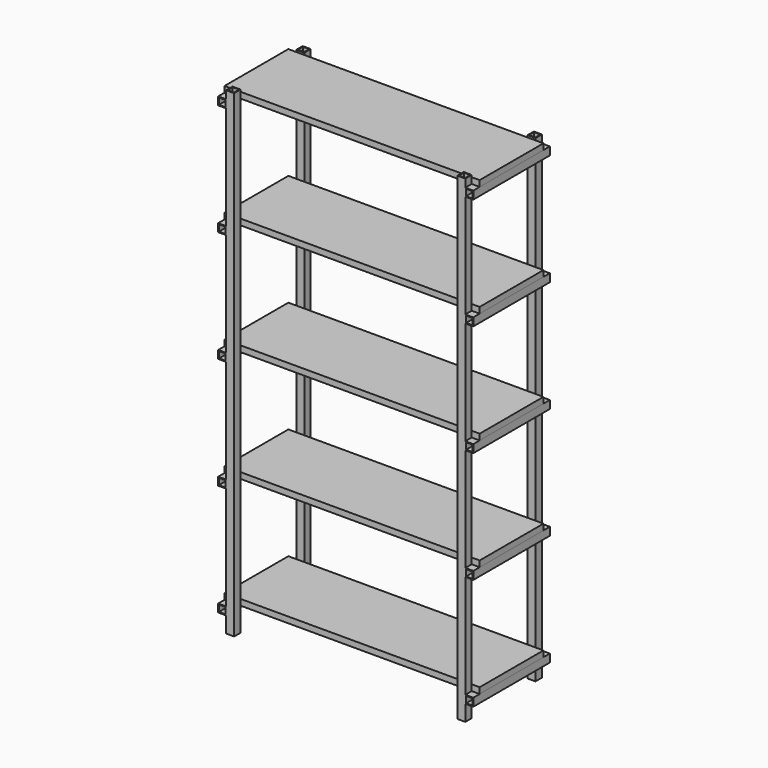
from build123d import *

# Parameters (mm, degrees)
F0_W      = 25.4
F0_H      = 1524
F1_DEPTH  = 25.4
F2_W      = 279.4
F2_H      = 25.4
F2_W_2    = 25.4
F4_DEPTH  = 25.4
F6_W      = 254
F6_H      = 19.05
F7_DEPTH  = 812.8
F8_W      = 20.32
F8_H      = 20.32
F9_DEPTH  = 304.8
F10_W     = 20.32
F10_H     = 20.32
F11_DEPTH = 1524


with BuildPart() as f1:
    # F0 (on Right) → F1 (new body)
    with BuildSketch(Plane.YZ):
        with Locations((12.7, 762)):
            Rectangle(F0_W, F0_H)
        Polygon((304.8, 1524), (279.4, 1524), (279.4, 1498.6), (279.4, 0), (304.8, 0), align=None)
    extrude(amount=F1_DEPTH)


with BuildPart() as f4:
    # F2 (on face) → F4 (new body)
    with BuildSketch(Plane.YZ.offset(25.4)):
        with Locations((165.1, 1485.9)):
            Rectangle(F2_W, F2_H)
        with Locations((165.1, 1130.3)):
            Rectangle(F2_W, F2_H)
        with Locations((165.1, 774.7)):
            Rectangle(F2_W, F2_H)
        with Locations((165.1, 419.1)):
            Rectangle(F2_W, F2_H)
        with Locations((165.1, 63.5)):
            Rectangle(F2_W, F2_H)
        with Locations((12.7, 1130.3)):
            Rectangle(F2_W_2, F2_H)
        with Locations((12.7, 774.7)):
            Rectangle(F2_W_2, F2_H)
        with Locations((12.7, 419.1)):
            Rectangle(F2_W_2, F2_H)
        with Locations((12.7, 63.5)):
            Rectangle(F2_W_2, F2_H)
        with Locations((12.7, 1485.9)):
            Rectangle(F2_W_2, F2_H)
    extrude(amount=F4_DEPTH)


with BuildPart() as f5_1:
    # F5: instance of F1
    add(f1.part.mirror(Plane.YZ.offset(-355.6)))


with BuildPart() as f5_2:
    # F5: instance of F4
    add(f4.part.mirror(Plane.YZ.offset(-355.6)))


with BuildPart() as f7:
    # F6 (on face) → F7 (new body)
    with BuildSketch(Plane.YZ.offset(50.8)):
        with Locations((152.4, 1508.125)):
            Rectangle(F6_W, F6_H)
        with Locations((152.4, 1152.525)):
            Rectangle(F6_W, F6_H)
        with Locations((152.4, 796.925)):
            Rectangle(F6_W, F6_H)
        with Locations((152.4, 441.325)):
            Rectangle(F6_W, F6_H)
        with Locations((152.4, 85.725)):
            Rectangle(F6_W, F6_H)
    extrude(amount=-F7_DEPTH)


with BuildPart() as f9_tool:
    # F8 (on face) → F9 (new body)
    with BuildSketch(Plane.XZ):
        with Locations((-749.3, 1485.9)):
            Rectangle(F8_W, F8_H)
        with Locations((-749.3, 1130.3)):
            Rectangle(F8_W, F8_H)
        with Locations((-749.3, 774.7)):
            Rectangle(F8_W, F8_H)
        with Locations((-749.3, 419.1)):
            Rectangle(F8_W, F8_H)
        with Locations((-749.3, 63.5)):
            Rectangle(F8_W, F8_H)
        with Locations((38.1, 63.5)):
            Rectangle(F8_W, F8_H)
        with Locations((38.1, 774.7)):
            Rectangle(F8_W, F8_H)
        with Locations((38.1, 419.1)):
            Rectangle(F8_W, F8_H)
        with Locations((38.1, 1485.9)):
            Rectangle(F8_W, F8_H)
        with Locations((38.1, 1130.3)):
            Rectangle(F8_W, F8_H)
    extrude(amount=-F9_DEPTH)


with BuildPart() as f4_1:
    add(f4.part)

    # F9: cut by f9_tool
    add(f9_tool.part, mode=Mode.SUBTRACT)


with BuildPart() as f5_2_1:
    add(f5_2.part)

    # F9: cut by f9_tool
    add(f9_tool.part, mode=Mode.SUBTRACT)


with BuildPart() as f11_tool:
    # F10 (on face) → F11 (new body)
    with BuildSketch(Plane.XY.offset(1524)):
        with Locations((-723.9, 12.7)):
            Rectangle(F10_W, F10_H)
        with Locations((-723.9, 292.1)):
            Rectangle(F10_W, F10_H)
        with Locations((12.7, 12.7)):
            Rectangle(F10_W, F10_H)
        with Locations((12.7, 292.1)):
            Rectangle(F10_W, F10_H)
    extrude(amount=-F11_DEPTH)


with BuildPart() as f1_1:
    add(f1.part)

    # F11: cut by f11_tool
    add(f11_tool.part, mode=Mode.SUBTRACT)


with BuildPart() as f5_1_1:
    add(f5_1.part)

    # F11: cut by f11_tool
    add(f11_tool.part, mode=Mode.SUBTRACT)


solid = Compound([f7.part, f4_1.part, f5_2_1.part, f1_1.part, f5_1_1.part])
